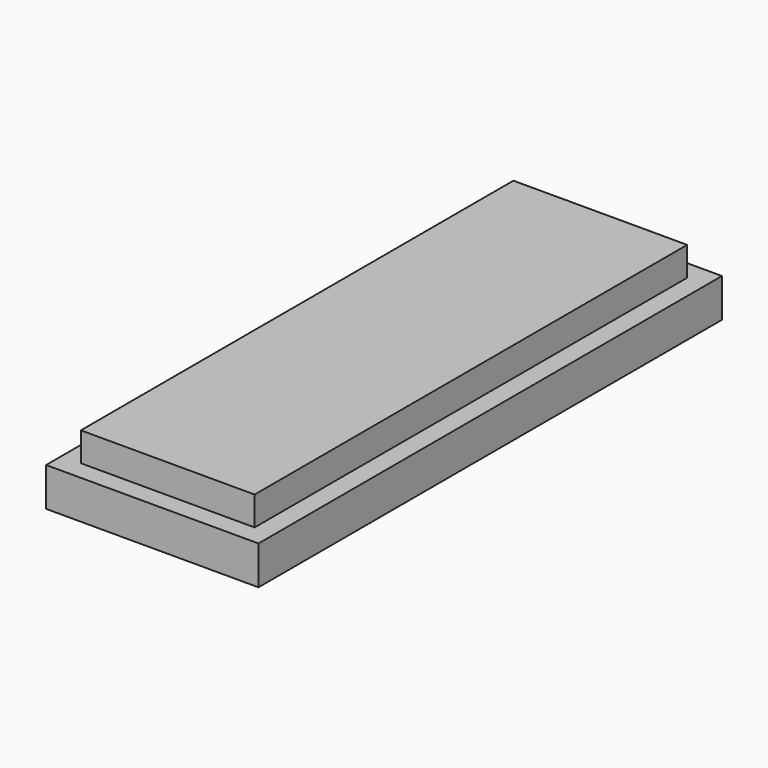
from build123d import *

# Parameters (mm, degrees)
F0_W     = 11
F0_H     = 30
F0_W_2   = 9
F0_H_2   = 28
F1_DEPTH = 2
F2_W     = 9
F2_H     = 28
F3_DEPTH = 1.5


with BuildPart() as f1:
    # F0 (on Top) → F1 (new body)
    with BuildSketch(Plane.XY):
        Rectangle(F0_W, F0_H)
        Rectangle(F0_W_2, F0_H_2, mode=Mode.SUBTRACT)
        Rectangle(F0_W_2, F0_H_2)
    extrude(amount=-F1_DEPTH)

    # F2 (on face) → F3 (join)
    with BuildSketch(Plane.XY):
        Rectangle(F2_W, F2_H)
    extrude(amount=F3_DEPTH)


solid = f1.part
